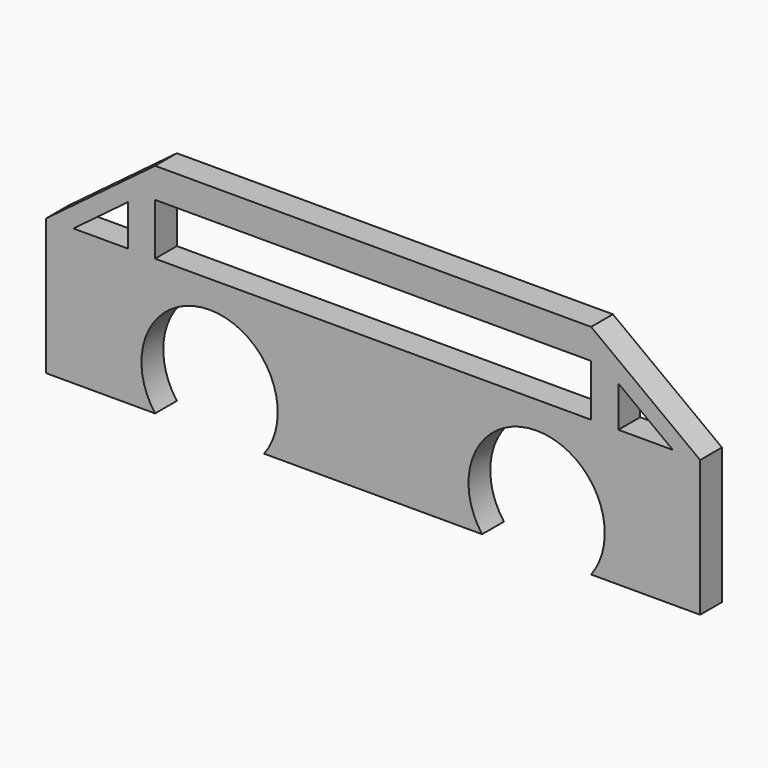
from build123d import *

# Parameters (mm, degrees)
F0_W     = 80
F0_H     = 9.5
F1_DEPTH = 5


with BuildPart() as f1:
    # F0 (on Front) → F1 (new body)
    with BuildSketch(Plane.XZ):
        with BuildLine():
            Line((-60, 25), (-60, 0))
            Line((-60, 0), (-42.5, 0))
            Line((-42.5, 0), (-40, 0))
            ThreePointArc((-40, 0), (-30, 20), (-20, 0))
            Line((-20, 0), (-17.5, 0))
            Line((-17.5, 0), (0, 0))
            Line((0, 0), (17.5, 0))
            Line((17.5, 0), (20, 0))
            ThreePointArc((20, 0), (30, 20), (40, 0))
            Line((40, 0), (42.5, 0))
            Line((42.5, 0), (60, 0))
            Line((60, 0), (60, 25))
            Line((60, 25), (40, 40))
            Line((40, 40), (-40, 40))
            Line((-40, 40), (-60, 25))
        make_face()
        Polygon((-45, 32.5), (-45, 25), (-55, 25), align=None, mode=Mode.SUBTRACT)
        with Locations((0, 29.75)):
            Rectangle(F0_W, F0_H, mode=Mode.SUBTRACT)
        Polygon((45, 32.5), (55, 25), (45, 25), align=None, mode=Mode.SUBTRACT)
    extrude(amount=F1_DEPTH)


solid = f1.part
